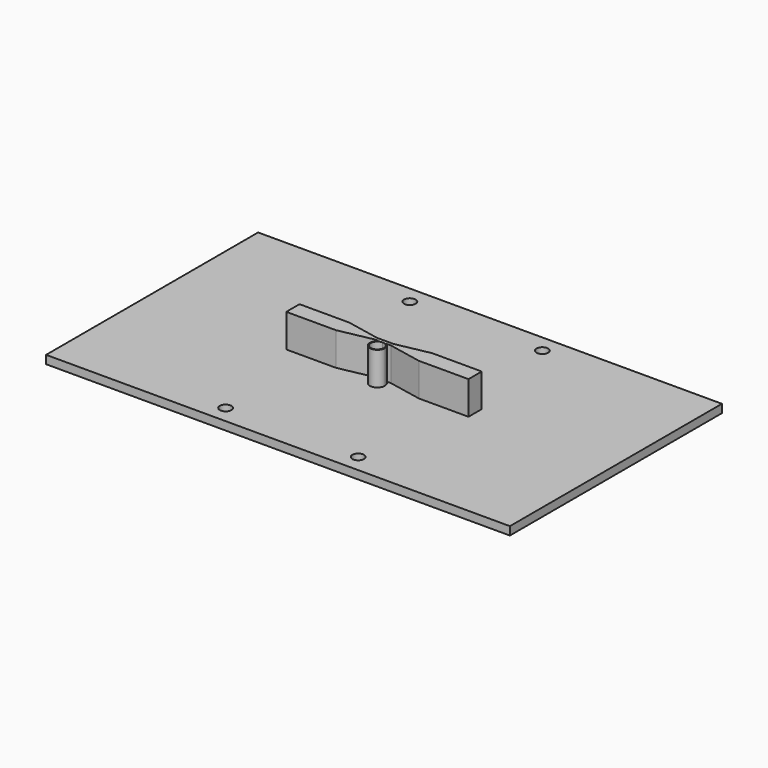
from build123d import *

# Parameters (mm, degrees)
F0_W     = 280
F0_H     = 160
F0_R     = 3.5
F1_DEPTH = 5
F3_DEPTH = 25


with BuildPart() as f1:
    # F0 (on Top) → F1 (new body)
    with BuildSketch(Plane.XY):
        Rectangle(F0_W, F0_H)
        with Locations((-40, -69.5)):
            Circle(F0_R, mode=Mode.SUBTRACT)
        with Locations((40, -69.5)):
            Circle(F0_R, mode=Mode.SUBTRACT)
        with Locations((-40, 69.5)):
            Circle(F0_R, mode=Mode.SUBTRACT)
        with Locations((40, 69.5)):
            Circle(F0_R, mode=Mode.SUBTRACT)
    extrude(amount=F1_DEPTH)


with BuildPart() as f3:
    # F2 (on face) → F3 (new body)
    with BuildSketch(Plane.XY):
        with BuildLine():
            ThreePointArc((0, -0.5), (-1.0606601718, -0.6267860789), (-2.0615528128, -1))
            Line((-2.0615528128, -1), (0, -1))
            Line((0, -1), (0, -0.5))
        make_face()
        with BuildLine():
            Line((0, -1), (2.0615528128, -1))
            ThreePointArc((2.0615528128, -1), (1.0606601718, -0.6267860789), (0, -0.5))
            Line((0, -0.5), (0, -1))
        make_face()
        with BuildLine():
            ThreePointArc((4.5, -5), (3.8423292192, -2.6576707808), (2.0615528128, -1))
            Line((2.0615528128, -1), (0, -1))
            Line((0, -1), (-2.0615528128, -1))
            ThreePointArc((-2.0615528128, -1), (-2.3423292192, -8.8423292192), (4.5, -5))
        make_face()
        with BuildLine():
            ThreePointArc((4, -5), (-2.8284271247, -7.8284271247), (0, -1))
            ThreePointArc((0, -1), (2.8284271247, -2.1715728753), (4, -5))
        make_face(mode=Mode.SUBTRACT)
        with BuildLine():
            Line((5, 1), (0, 1))
            Line((0, 1), (-5, 1))
            Line((-5, 1), (-25, 5))
            Line((-25, 5), (-55, 5))
            Line((-55, 5), (-55, 0))
            Line((-55, 0), (-55, -5))
            Line((-55, -5), (-25, -5))
            Line((-25, -5), (-5, -1))
            Line((-5, -1), (-2.0615528128, -1))
            ThreePointArc((-2.0615528128, -1), (-1.0606601718, -0.6267860789), (0, -0.5))
            ThreePointArc((0, -0.5), (1.0606601718, -0.6267860789), (2.0615528128, -1))
            Line((2.0615528128, -1), (5, -1))
            Line((5, -1), (25, -5))
            Line((25, -5), (55, -5))
            Line((55, -5), (55, 5))
            Line((55, 5), (25, 5))
            Line((25, 5), (5, 1))
        make_face()
    extrude(amount=F3_DEPTH)


solid = Compound([f1.part, f3.part])
